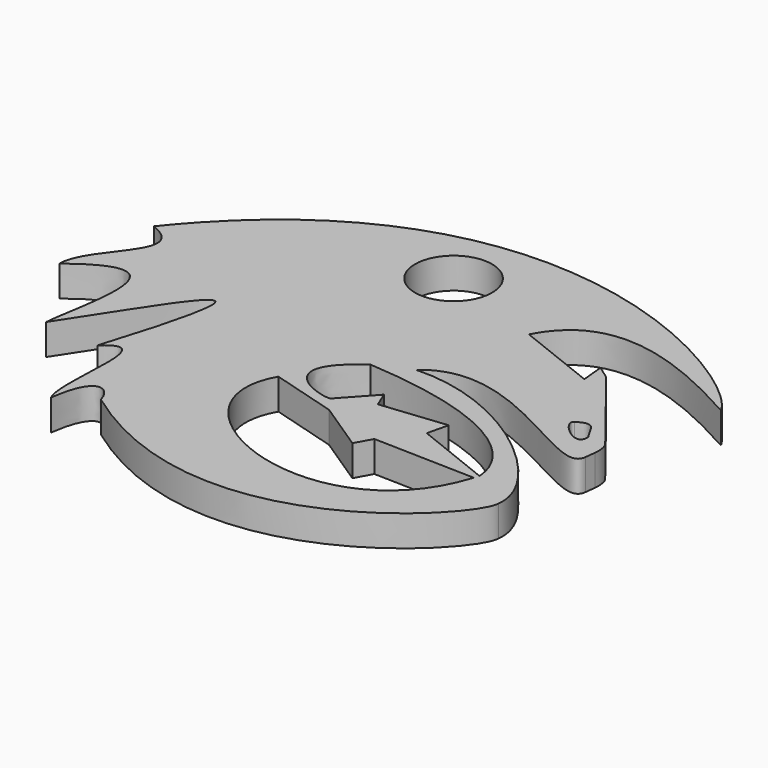
from build123d import *

# Parameters (mm, degrees)
F1_DEPTH = 2.54
F2_D     = 6.35


with BuildPart() as f1:
    # F0 (on Top) → F1 (new body)
    with BuildSketch(Plane.XY):
        with BuildLine():
            add(Edge.make_bspline(
                [(16.9162325434, 11.1302494964), (10.6173916847, 14.6491511061), (3.6719473603, 17.4901827858), (0.6745222376, 11.6793121436)],
                knots=[0, 0, 0, 0, 16.2509883837, 16.2509883837, 16.2509883837, 16.2509883837], degree=3))
            add(Edge.make_bspline(
                [(16.9162325434, 11.1302494964), (14.8618696663, 15.2454574194), (-9.6209044569, 30.825518148), (-27.5602830033, 8.3658157723)],
                knots=[0, 0, 0, 0, 44.5623442941, 44.5623442941, 44.5623442941, 44.5623442941], degree=3))
            add(Edge.make_bspline(
                [(-27.5602830033, 8.3658157723), (-23.1387006403, 6.6023558736), (-29.0506580617, 3.6500970212), (-29.0506580617, 0.5379541991)],
                knots=[0, 0, 0, 0, 7.96847756, 7.96847756, 7.96847756, 7.96847756], degree=3))
            add(Edge.make_bspline(
                [(-29.0506580617, 0.5379541991), (-21.4367877221, 6.4647817117), (-24.4466526217, -3.3442209581), (-24.6394067583, -6.3670683841)],
                knots=[0, 0, 0, 0, 8.1938071089, 8.1938071089, 8.1938071089, 8.1938071089], degree=3))
            add(Edge.make_bspline(
                [(-20.0331830827, -6.8474805294), (-14.6305017112, 10.4242619984), (-20.1290989413, 0.3508766382), (-24.6394067583, -6.3670683841)],
                knots=[0, 0, 0, 0, 4.6312085225, 4.6312085225, 4.6312085225, 4.6312085225], degree=3))
            add(Edge.make_bspline(
                [(-20.0331830827, -6.8474805294), (-16.5803567914, -3.5949789299), (-18.9167173055, -12.2930400385), (-17.8260975925, -14.3658954031)],
                knots=[0, 0, 0, 0, 7.8356740982, 7.8356740982, 7.8356740982, 7.8356740982], degree=3))
            add(Edge.make_bspline(
                [(-17.8260975925, -14.3658954031), (-17.215194687, -9.953447835), (-15.4535646615, -11.2061676603), (-15.1734824357, -12.5731787678)],
                knots=[0, 0, 0, 0, 3.2015933696, 3.2015933696, 3.2015933696, 3.2015933696], degree=3))
            add(Edge.make_bspline(
                [(-15.1734824357, -12.5731787678), (0.9351442161, -24.3282241127), (13.9006609115, -10.378781236), (13.8459185793, -7.9251537634)],
                knots=[0, 0, 0, 0, 29.3892798774, 29.3892798774, 29.3892798774, 29.3892798774], degree=3))
            add(Edge.make_bspline(
                [(13.8459185793, -7.9251537634), (14.4705174501, -4.2570857866), (5.9451477585, 3.6243494123), (-1.9066953508, 3.2963461862)],
                knots=[0, 0, 0, 0, 19.3408093612, 19.3408093612, 19.3408093612, 19.3408093612], degree=3))
            add(Edge.make_bspline(
                [(14.1844064521, 0.6303365962), (13.8549948635, -2.6087045981), (3.4120115044, 7.9753108011), (-1.9066953508, 3.2963461862)],
                knots=[0, 0, 0, 0, 16.3104618072, 16.3104618072, 16.3104618072, 16.3104618072], degree=3))
            Line((14.1844064521, 0.6303365962), (14.2874031917, 1.4681309346))
            ThreePointArc((14.2874031917, 1.4681309346), (14.2862764136, 2.0970209965), (14.1306719926, 2.706357721))
            Line((14.1306719926, 2.706357721), (8.2535952854, 10.1542815254))
            Line((8.2535952854, 10.1542815254), (7.1715055558, 10.9188079522))
            Line((7.1715055558, 10.9188079522), (7.3519697937, 9.0357817398))
            Line((7.3519697937, 9.0357817398), (0.6745222376, 11.6793121436))
        make_face()
        with BuildLine():
            Line((2.0118946452, -5.8973378815), (10.3730486414, -6.1190334722))
            add(Edge.make_bspline(
                [(-8.2346448151, -2.9695622935), (-12.7608271205, -10.9885158128), (6.2981528306, -18.9019124884), (10.3730486414, -6.1190334722)],
                knots=[0, 0, 0, 0, 18.7295398739, 18.7295398739, 18.7295398739, 18.7295398739], degree=3))
            Line((-8.2346448151, -2.9695622935), (-2.8001075087, -4.5467384471))
            Line((-2.8001075087, -4.5467384471), (1.2712995114, -7.2350504189))
            Line((1.2712995114, -7.2350504189), (2.0118946452, -5.8973378815))
        make_face(mode=Mode.SUBTRACT)
        with BuildLine():
            add(Edge.make_bspline(
                [(-4.6576359717, 2.0382523225), (-10.2914260176, -1.8964588954), (-4.2583988979, -3.4961642232), (-3.7034447699, -3.2582458477)],
                knots=[0, 0, 0, 0, 5.3817630676, 5.3817630676, 5.3817630676, 5.3817630676], degree=3))
            add(Edge.make_bspline(
                [(-4.6576359717, 2.0382523225), (6.3064250848, 1.3169960591), (10.3186587396, -2.4399806126), (10.499944404, -5.6970317228)],
                knots=[0, 0, 0, 0, 17.0172518964, 17.0172518964, 17.0172518964, 17.0172518964], degree=3))
            Line((10.499944404, -5.6970317228), (4.1380417139, -3.163198791))
            Line((4.1380417139, -3.163198791), (4.5476522834, -1.4206868033))
            Line((4.5476522834, -1.4206868033), (-0.8271444052, -1.9909635554))
            Line((-0.8271444052, -1.9909635554), (-1.3657431512, -0.6919995318))
            Line((-1.3657431512, -0.6919995318), (-3.7034447699, -3.2582458477))
        make_face(mode=Mode.SUBTRACT)
        with BuildLine():
            add(Edge.make_bspline(
                [(10.5601109071, 3.9872583789), (11.9422007876, 4.8808239089), (11.9422007876, 3.7504218207), (12.5718558609, 2.9269033331)],
                knots=[0, 0, 0, 0, 2.2740867579, 2.2740867579, 2.2740867579, 2.2740867579], degree=3))
            add(Edge.make_bspline(
                [(12.5718558609, 2.9269033331), (12.7213471117, 1.0998506558), (9.8570868897, 3.5529274182), (10.5601109071, 3.9872583789)],
                knots=[0, 0, 0, 0, 2.2740867579, 2.2740867579, 2.2740867579, 2.2740867579], degree=3))
        make_face(mode=Mode.SUBTRACT)
    extrude(amount=F1_DEPTH)

    # F2 (through all)
    with Locations(Plane(origin=(0, 0, 0), x_dir=(1, 0, 0), z_dir=(0, 0, -1))):
        with Locations((-7.9773925245, -14.7375268862)):
            Hole(F2_D / 2)


solid = f1.part
